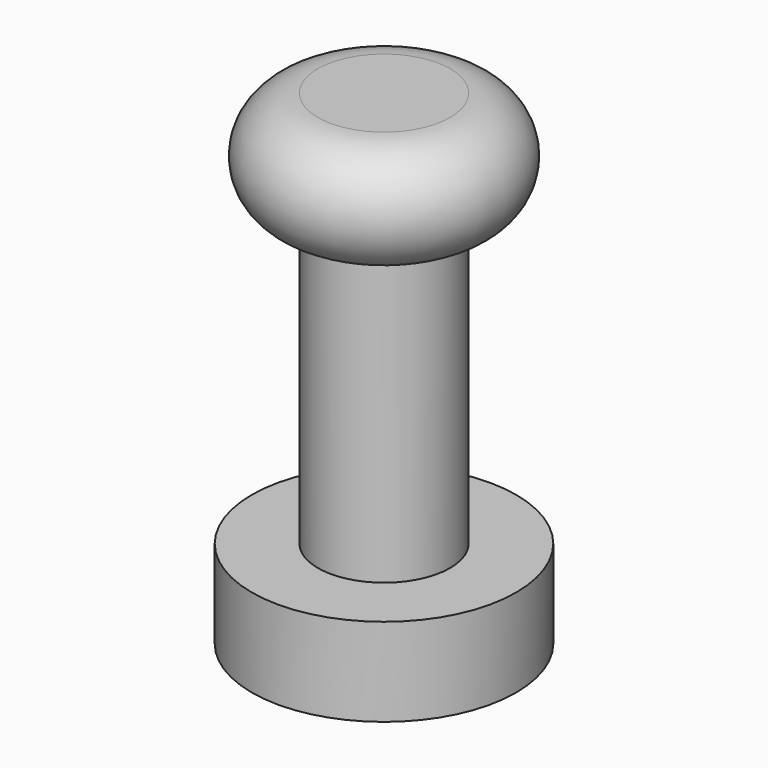
from build123d import *


with BuildPart() as f1:
    # F0 (on Front) → F1 (revolve)
    with BuildSketch(Plane.XZ):
        Polygon((0, 139.7), (0, 0), (38.1, 0), (38.1, 25.4), (19.05, 25.4), (19.05, 107.95), (19.05, 139.7), align=None)
        with BuildLine():
            ThreePointArc((19.05, 107.95), (34.925, 123.825), (19.05, 139.7))
            Line((19.05, 139.7), (19.05, 107.95))
        make_face()
    revolve(axis=Axis((0, 0, 82.55), (0, 0, 1)))


solid = f1.part
